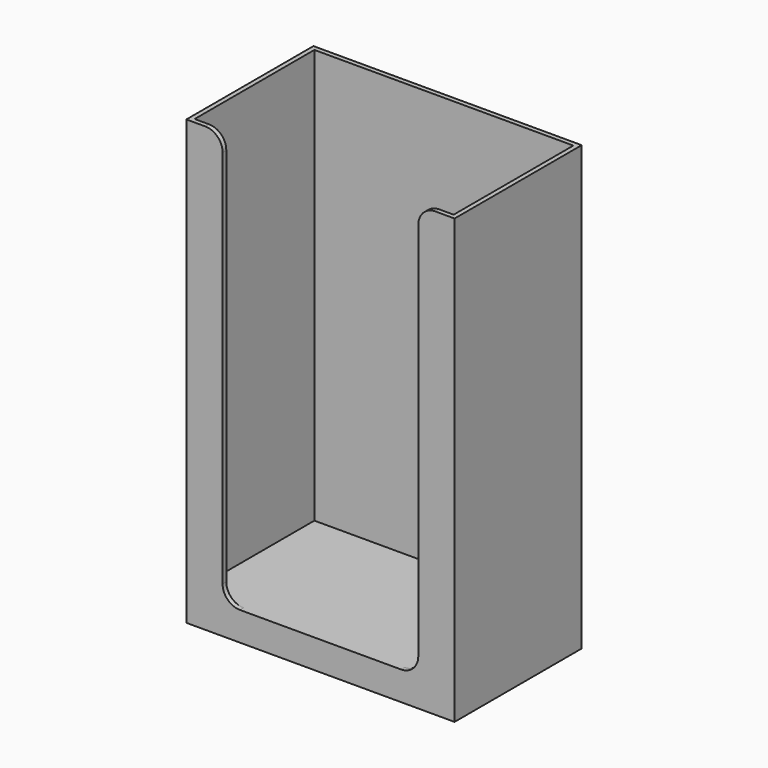
from build123d import *

# Parameters (mm, degrees)
F0_W     = 46.6
F0_H     = 27.6
F0_W_2   = 45
F0_H_2   = 26
F1_DEPTH = 77
F2_W     = 46.6
F2_H     = 27.6
F3_DEPTH = 5
F4_W     = 34
F4_H     = 72
F5_DEPTH = 0.8
F6_R     = 3


with BuildPart() as f1:
    # F0 (on Top) → F1 (new body)
    with BuildSketch(Plane.XY):
        Rectangle(F0_W, F0_H)
        Rectangle(F0_W_2, F0_H_2, mode=Mode.SUBTRACT)
    extrude(amount=F1_DEPTH)

    # F2 (on face) → F3 (join)
    with BuildSketch(Plane(origin=(0, 0, 0), x_dir=(1, 0, 0), z_dir=(0, 0, -1))):
        Rectangle(F2_W, F2_H)
    extrude(amount=-F3_DEPTH)

    # F4 (on face) → F5 (cut, through all)
    with BuildSketch(Plane.XZ.offset(13.8)):
        with Locations((0, 41)):
            Rectangle(F4_W, F4_H)
    extrude(amount=-F5_DEPTH, mode=Mode.SUBTRACT)

    # F6
    f6_edges = [f1.edges().sort_by_distance(p)[0] for p in [
        (-17, -13.4, 77),
        (17, -13.4, 77),
        (-17, -13.4, 5),
        (17, -13.4, 5),
    ]]
    fillet(f6_edges, radius=F6_R)


solid = f1.part
